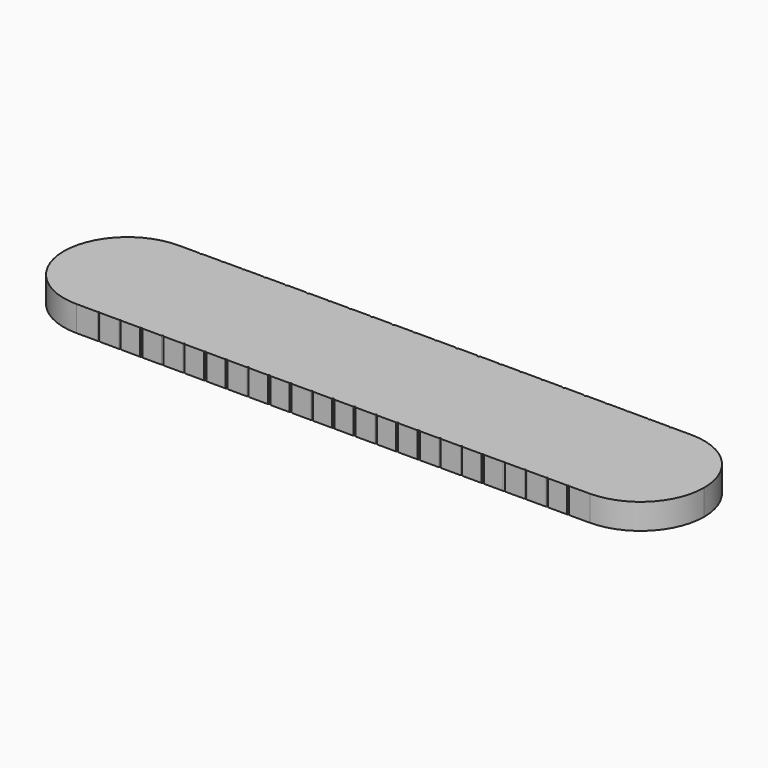
from build123d import *

# Parameters (mm, degrees)
F1_DEPTH = 6
F3_DEPTH = 25


with BuildPart() as f1:
    # F0 (on Top) → F1 (new body)
    with BuildSketch(Plane.XY):
        with BuildLine():
            ThreePointArc((60.149461, 14.9), (30.074772, 14.975), (0, 15))
            ThreePointArc((0, 15), (-30.074772, 14.975), (-60.149461, 14.9))
            ThreePointArc((-60.149461, 14.9), (-70.653369, 10.518418), (-75, 0))
            ThreePointArc((-75, 0), (-70.653369, -10.518418), (-60.149461, -14.9))
            ThreePointArc((-60.149461, -14.9), (-30.074772, -14.975), (0, -15))
            ThreePointArc((0, -15), (30.074772, -14.975), (60.149461, -14.9))
            ThreePointArc((60.149461, -14.9), (70.653369, -10.518418), (75, 0))
            ThreePointArc((75, 0), (70.653369, 10.518418), (60.149461, 14.9))
        make_face()
    extrude(amount=F1_DEPTH)

    # F2 (on Top) → F3 (cut)
    with BuildSketch(Plane.XY):
        with BuildLine():
            ThreePointArc((-55.149461, 14.9), (-55.02977, 14.873802), (-54.931967, 14.8))
            ThreePointArc((-54.931967, 14.8), (-54.871973, 14.772416), (-54.811979, 14.8))
            ThreePointArc((-54.811979, 14.8), (-54.714176, 14.873802), (-54.594486, 14.9))
            Line((-54.594486, 14.9), (-54.594486, 15.279223))
            Line((-54.594486, 15.279223), (-55.149461, 15.279223))
            Line((-55.149461, 15.279223), (-55.149461, 14.9))
        make_face()
        with BuildLine():
            ThreePointArc((-54.811979, -14.8), (-54.871973, -14.772416), (-54.931967, -14.8))
            ThreePointArc((-54.931967, -14.8), (-55.02977, -14.873802), (-55.149461, -14.9))
            Line((-55.149461, -14.9), (-55.149461, -15.279223))
            Line((-55.149461, -15.279223), (-54.594486, -15.279223))
            Line((-54.594486, -15.279223), (-54.594486, -14.9))
            ThreePointArc((-54.594486, -14.9), (-54.714176, -14.873802), (-54.811979, -14.8))
        make_face()
        with BuildLine():
            Line((-50.149461, -14.9), (-50.149461, -15.279223))
            Line((-50.149461, -15.279223), (-49.594486, -15.279223))
            Line((-49.594486, -15.279223), (-49.594486, -14.9))
            ThreePointArc((-49.594486, -14.9), (-49.714176, -14.873802), (-49.811979, -14.8))
            ThreePointArc((-49.811979, -14.8), (-49.871973, -14.772416), (-49.931967, -14.8))
            ThreePointArc((-49.931967, -14.8), (-50.02977, -14.873802), (-50.149461, -14.9))
        make_face()
        with BuildLine():
            ThreePointArc((-50.149461, 14.9), (-50.02977, 14.873802), (-49.931967, 14.8))
            ThreePointArc((-49.931967, 14.8), (-49.871973, 14.772416), (-49.811979, 14.8))
            ThreePointArc((-49.811979, 14.8), (-49.714176, 14.873802), (-49.594486, 14.9))
            Line((-49.594486, 14.9), (-49.594486, 15.279223))
            Line((-49.594486, 15.279223), (-50.149461, 15.279223))
            Line((-50.149461, 15.279223), (-50.149461, 14.9))
        make_face()
        with BuildLine():
            Line((-45.149461, -14.9), (-45.149461, -15.279223))
            Line((-45.149461, -15.279223), (-44.594486, -15.279223))
            Line((-44.594486, -15.279223), (-44.594486, -14.9))
            ThreePointArc((-44.594486, -14.9), (-44.714176, -14.873802), (-44.811979, -14.8))
            ThreePointArc((-44.811979, -14.8), (-44.871973, -14.772416), (-44.931967, -14.8))
            ThreePointArc((-44.931967, -14.8), (-45.02977, -14.873802), (-45.149461, -14.9))
        make_face()
        with BuildLine():
            ThreePointArc((-45.149461, 14.9), (-45.02977, 14.873802), (-44.931967, 14.8))
            ThreePointArc((-44.931967, 14.8), (-44.871973, 14.772416), (-44.811979, 14.8))
            ThreePointArc((-44.811979, 14.8), (-44.714176, 14.873802), (-44.594486, 14.9))
            Line((-44.594486, 14.9), (-44.594486, 15.279223))
            Line((-44.594486, 15.279223), (-45.149461, 15.279223))
            Line((-45.149461, 15.279223), (-45.149461, 14.9))
        make_face()
        with BuildLine():
            Line((-40.149461, -14.9), (-40.149461, -15.279223))
            Line((-40.149461, -15.279223), (-39.594486, -15.279223))
            Line((-39.594486, -15.279223), (-39.594486, -14.9))
            ThreePointArc((-39.594486, -14.9), (-39.714176, -14.873802), (-39.811979, -14.8))
            ThreePointArc((-39.811979, -14.8), (-39.871973, -14.772416), (-39.931967, -14.8))
            ThreePointArc((-39.931967, -14.8), (-40.02977, -14.873802), (-40.149461, -14.9))
        make_face()
        with BuildLine():
            ThreePointArc((-40.149461, 14.9), (-40.02977, 14.873802), (-39.931967, 14.8))
            ThreePointArc((-39.931967, 14.8), (-39.871973, 14.772416), (-39.811979, 14.8))
            ThreePointArc((-39.811979, 14.8), (-39.714176, 14.873802), (-39.594486, 14.9))
            Line((-39.594486, 14.9), (-39.594486, 15.279223))
            Line((-39.594486, 15.279223), (-40.149461, 15.279223))
            Line((-40.149461, 15.279223), (-40.149461, 14.9))
        make_face()
        with BuildLine():
            Line((-35.149461, -14.9), (-35.149461, -15.279223))
            Line((-35.149461, -15.279223), (-34.594486, -15.279223))
            Line((-34.594486, -15.279223), (-34.594486, -14.9))
            ThreePointArc((-34.594486, -14.9), (-34.714176, -14.873802), (-34.811979, -14.8))
            ThreePointArc((-34.811979, -14.8), (-34.871973, -14.772416), (-34.931967, -14.8))
            ThreePointArc((-34.931967, -14.8), (-35.02977, -14.873802), (-35.149461, -14.9))
        make_face()
        with BuildLine():
            ThreePointArc((-35.149461, 14.9), (-35.02977, 14.873802), (-34.931967, 14.8))
            ThreePointArc((-34.931967, 14.8), (-34.871973, 14.772416), (-34.811979, 14.8))
            ThreePointArc((-34.811979, 14.8), (-34.714176, 14.873802), (-34.594486, 14.9))
            Line((-34.594486, 14.9), (-34.594486, 15.279223))
            Line((-34.594486, 15.279223), (-35.149461, 15.279223))
            Line((-35.149461, 15.279223), (-35.149461, 14.9))
        make_face()
        with BuildLine():
            Line((-30.149461, -14.9), (-30.149461, -15.279223))
            Line((-30.149461, -15.279223), (-29.594486, -15.279223))
            Line((-29.594486, -15.279223), (-29.594486, -14.9))
            ThreePointArc((-29.594486, -14.9), (-29.714176, -14.873802), (-29.811979, -14.8))
            ThreePointArc((-29.811979, -14.8), (-29.871973, -14.772416), (-29.931967, -14.8))
            ThreePointArc((-29.931967, -14.8), (-30.02977, -14.873802), (-30.149461, -14.9))
        make_face()
        with BuildLine():
            ThreePointArc((-30.149461, 14.9), (-30.02977, 14.873802), (-29.931967, 14.8))
            ThreePointArc((-29.931967, 14.8), (-29.871973, 14.772416), (-29.811979, 14.8))
            ThreePointArc((-29.811979, 14.8), (-29.714176, 14.873802), (-29.594486, 14.9))
            Line((-29.594486, 14.9), (-29.594486, 15.279223))
            Line((-29.594486, 15.279223), (-30.149461, 15.279223))
            Line((-30.149461, 15.279223), (-30.149461, 14.9))
        make_face()
        with BuildLine():
            Line((-25.149461, -14.9), (-25.149461, -15.279223))
            Line((-25.149461, -15.279223), (-24.594486, -15.279223))
            Line((-24.594486, -15.279223), (-24.594486, -14.9))
            ThreePointArc((-24.594486, -14.9), (-24.714176, -14.873802), (-24.811979, -14.8))
            ThreePointArc((-24.811979, -14.8), (-24.871973, -14.772416), (-24.931967, -14.8))
            ThreePointArc((-24.931967, -14.8), (-25.02977, -14.873802), (-25.149461, -14.9))
        make_face()
        with BuildLine():
            ThreePointArc((-25.149461, 14.9), (-25.02977, 14.873802), (-24.931967, 14.8))
            ThreePointArc((-24.931967, 14.8), (-24.871973, 14.772416), (-24.811979, 14.8))
            ThreePointArc((-24.811979, 14.8), (-24.714176, 14.873802), (-24.594486, 14.9))
            Line((-24.594486, 14.9), (-24.594486, 15.279223))
            Line((-24.594486, 15.279223), (-25.149461, 15.279223))
            Line((-25.149461, 15.279223), (-25.149461, 14.9))
        make_face()
        with BuildLine():
            Line((-20.149461, -14.9), (-20.149461, -15.279223))
            Line((-20.149461, -15.279223), (-19.594486, -15.279223))
            Line((-19.594486, -15.279223), (-19.594486, -14.9))
            ThreePointArc((-19.594486, -14.9), (-19.714176, -14.873802), (-19.811979, -14.8))
            ThreePointArc((-19.811979, -14.8), (-19.871973, -14.772416), (-19.931967, -14.8))
            ThreePointArc((-19.931967, -14.8), (-20.02977, -14.873802), (-20.149461, -14.9))
        make_face()
        with BuildLine():
            ThreePointArc((-20.149461, 14.9), (-20.02977, 14.873802), (-19.931967, 14.8))
            ThreePointArc((-19.931967, 14.8), (-19.871973, 14.772416), (-19.811979, 14.8))
            ThreePointArc((-19.811979, 14.8), (-19.714176, 14.873802), (-19.594486, 14.9))
            Line((-19.594486, 14.9), (-19.594486, 15.279223))
            Line((-19.594486, 15.279223), (-20.149461, 15.279223))
            Line((-20.149461, 15.279223), (-20.149461, 14.9))
        make_face()
        with BuildLine():
            Line((-15.149461, -14.9), (-15.149461, -15.279223))
            Line((-15.149461, -15.279223), (-14.594486, -15.279223))
            Line((-14.594486, -15.279223), (-14.594486, -14.9))
            ThreePointArc((-14.594486, -14.9), (-14.714176, -14.873802), (-14.811979, -14.8))
            ThreePointArc((-14.811979, -14.8), (-14.871973, -14.772416), (-14.931967, -14.8))
            ThreePointArc((-14.931967, -14.8), (-15.02977, -14.873802), (-15.149461, -14.9))
        make_face()
        with BuildLine():
            ThreePointArc((-15.149461, 14.9), (-15.02977, 14.873802), (-14.931967, 14.8))
            ThreePointArc((-14.931967, 14.8), (-14.871973, 14.772416), (-14.811979, 14.8))
            ThreePointArc((-14.811979, 14.8), (-14.714176, 14.873802), (-14.594486, 14.9))
            Line((-14.594486, 14.9), (-14.594486, 15.279223))
            Line((-14.594486, 15.279223), (-15.149461, 15.279223))
            Line((-15.149461, 15.279223), (-15.149461, 14.9))
        make_face()
        with BuildLine():
            Line((-10.149461, -14.9), (-10.149461, -15.279223))
            Line((-10.149461, -15.279223), (-9.594486, -15.279223))
            Line((-9.594486, -15.279223), (-9.594486, -14.9))
            ThreePointArc((-9.594486, -14.9), (-9.714176, -14.873802), (-9.811979, -14.8))
            ThreePointArc((-9.811979, -14.8), (-9.871973, -14.772416), (-9.931967, -14.8))
            ThreePointArc((-9.931967, -14.8), (-10.02977, -14.873802), (-10.149461, -14.9))
        make_face()
        with BuildLine():
            ThreePointArc((-10.149461, 14.9), (-10.02977, 14.873802), (-9.931967, 14.8))
            ThreePointArc((-9.931967, 14.8), (-9.871973, 14.772416), (-9.811979, 14.8))
            ThreePointArc((-9.811979, 14.8), (-9.714176, 14.873802), (-9.594486, 14.9))
            Line((-9.594486, 14.9), (-9.594486, 15.279223))
            Line((-9.594486, 15.279223), (-10.149461, 15.279223))
            Line((-10.149461, 15.279223), (-10.149461, 14.9))
        make_face()
        with BuildLine():
            Line((-5.149461, -14.9), (-5.149461, -15.279223))
            Line((-5.149461, -15.279223), (-4.594486, -15.279223))
            Line((-4.594486, -15.279223), (-4.594486, -14.9))
            ThreePointArc((-4.594486, -14.9), (-4.714176, -14.873802), (-4.811979, -14.8))
            ThreePointArc((-4.811979, -14.8), (-4.871973, -14.772416), (-4.931967, -14.8))
            ThreePointArc((-4.931967, -14.8), (-5.02977, -14.873802), (-5.149461, -14.9))
        make_face()
        with BuildLine():
            ThreePointArc((-5.149461, 14.9), (-5.02977, 14.873802), (-4.931967, 14.8))
            ThreePointArc((-4.931967, 14.8), (-4.871973, 14.772416), (-4.811979, 14.8))
            ThreePointArc((-4.811979, 14.8), (-4.714176, 14.873802), (-4.594486, 14.9))
            Line((-4.594486, 14.9), (-4.594486, 15.279223))
            Line((-4.594486, 15.279223), (-5.149461, 15.279223))
            Line((-5.149461, 15.279223), (-5.149461, 14.9))
        make_face()
        with BuildLine():
            Line((-0.149461, -14.9), (-0.149461, -15.279223))
            Line((-0.149461, -15.279223), (0.405514, -15.279223))
            Line((0.405514, -15.279223), (0.405514, -14.9))
            ThreePointArc((0.405514, -14.9), (0.285824, -14.873802), (0.188021, -14.8))
            ThreePointArc((0.188021, -14.8), (0.128027, -14.772416), (0.068033, -14.8))
            ThreePointArc((0.068033, -14.8), (-0.02977, -14.873802), (-0.149461, -14.9))
        make_face()
        with BuildLine():
            ThreePointArc((-0.149461, 14.9), (-0.02977, 14.873802), (0.068033, 14.8))
            ThreePointArc((0.068033, 14.8), (0.128027, 14.772416), (0.188021, 14.8))
            ThreePointArc((0.188021, 14.8), (0.285824, 14.873802), (0.405514, 14.9))
            Line((0.405514, 14.9), (0.405514, 15.279223))
            Line((0.405514, 15.279223), (-0.149461, 15.279223))
            Line((-0.149461, 15.279223), (-0.149461, 14.9))
        make_face()
        with BuildLine():
            Line((4.850539, -14.9), (4.850539, -15.279223))
            Line((4.850539, -15.279223), (5.405514, -15.279223))
            Line((5.405514, -15.279223), (5.405514, -14.9))
            ThreePointArc((5.405514, -14.9), (5.285824, -14.873802), (5.188021, -14.8))
            ThreePointArc((5.188021, -14.8), (5.128027, -14.772416), (5.068033, -14.8))
            ThreePointArc((5.068033, -14.8), (4.97023, -14.873802), (4.850539, -14.9))
        make_face()
        with BuildLine():
            ThreePointArc((4.850539, 14.9), (4.97023, 14.873802), (5.068033, 14.8))
            ThreePointArc((5.068033, 14.8), (5.128027, 14.772416), (5.188021, 14.8))
            ThreePointArc((5.188021, 14.8), (5.285824, 14.873802), (5.405514, 14.9))
            Line((5.405514, 14.9), (5.405514, 15.279223))
            Line((5.405514, 15.279223), (4.850539, 15.279223))
            Line((4.850539, 15.279223), (4.850539, 14.9))
        make_face()
        with BuildLine():
            Line((9.850539, -14.9), (9.850539, -15.279223))
            Line((9.850539, -15.279223), (10.405514, -15.279223))
            Line((10.405514, -15.279223), (10.405514, -14.9))
            ThreePointArc((10.405514, -14.9), (10.285824, -14.873802), (10.188021, -14.8))
            ThreePointArc((10.188021, -14.8), (10.128027, -14.772416), (10.068033, -14.8))
            ThreePointArc((10.068033, -14.8), (9.97023, -14.873802), (9.850539, -14.9))
        make_face()
        with BuildLine():
            ThreePointArc((9.850539, 14.9), (9.97023, 14.873802), (10.068033, 14.8))
            ThreePointArc((10.068033, 14.8), (10.128027, 14.772416), (10.188021, 14.8))
            ThreePointArc((10.188021, 14.8), (10.285824, 14.873802), (10.405514, 14.9))
            Line((10.405514, 14.9), (10.405514, 15.279223))
            Line((10.405514, 15.279223), (9.850539, 15.279223))
            Line((9.850539, 15.279223), (9.850539, 14.9))
        make_face()
        with BuildLine():
            Line((14.850539, -14.9), (14.850539, -15.279223))
            Line((14.850539, -15.279223), (15.405514, -15.279223))
            Line((15.405514, -15.279223), (15.405514, -14.9))
            ThreePointArc((15.405514, -14.9), (15.285824, -14.873802), (15.188021, -14.8))
            ThreePointArc((15.188021, -14.8), (15.128027, -14.772416), (15.068033, -14.8))
            ThreePointArc((15.068033, -14.8), (14.97023, -14.873802), (14.850539, -14.9))
        make_face()
        with BuildLine():
            ThreePointArc((14.850539, 14.9), (14.97023, 14.873802), (15.068033, 14.8))
            ThreePointArc((15.068033, 14.8), (15.128027, 14.772416), (15.188021, 14.8))
            ThreePointArc((15.188021, 14.8), (15.285824, 14.873802), (15.405514, 14.9))
            Line((15.405514, 14.9), (15.405514, 15.279223))
            Line((15.405514, 15.279223), (14.850539, 15.279223))
            Line((14.850539, 15.279223), (14.850539, 14.9))
        make_face()
        with BuildLine():
            Line((19.850539, -14.9), (19.850539, -15.279223))
            Line((19.850539, -15.279223), (20.405514, -15.279223))
            Line((20.405514, -15.279223), (20.405514, -14.9))
            ThreePointArc((20.405514, -14.9), (20.285824, -14.873802), (20.188021, -14.8))
            ThreePointArc((20.188021, -14.8), (20.128027, -14.772416), (20.068033, -14.8))
            ThreePointArc((20.068033, -14.8), (19.97023, -14.873802), (19.850539, -14.9))
        make_face()
        with BuildLine():
            ThreePointArc((19.850539, 14.9), (19.97023, 14.873802), (20.068033, 14.8))
            ThreePointArc((20.068033, 14.8), (20.128027, 14.772416), (20.188021, 14.8))
            ThreePointArc((20.188021, 14.8), (20.285824, 14.873802), (20.405514, 14.9))
            Line((20.405514, 14.9), (20.405514, 15.279223))
            Line((20.405514, 15.279223), (19.850539, 15.279223))
            Line((19.850539, 15.279223), (19.850539, 14.9))
        make_face()
        with BuildLine():
            Line((24.850539, -14.9), (24.850539, -15.279223))
            Line((24.850539, -15.279223), (25.405514, -15.279223))
            Line((25.405514, -15.279223), (25.405514, -14.9))
            ThreePointArc((25.405514, -14.9), (25.285824, -14.873802), (25.188021, -14.8))
            ThreePointArc((25.188021, -14.8), (25.128027, -14.772416), (25.068033, -14.8))
            ThreePointArc((25.068033, -14.8), (24.97023, -14.873802), (24.850539, -14.9))
        make_face()
        with BuildLine():
            ThreePointArc((24.850539, 14.9), (24.97023, 14.873802), (25.068033, 14.8))
            ThreePointArc((25.068033, 14.8), (25.128027, 14.772416), (25.188021, 14.8))
            ThreePointArc((25.188021, 14.8), (25.285824, 14.873802), (25.405514, 14.9))
            Line((25.405514, 14.9), (25.405514, 15.279223))
            Line((25.405514, 15.279223), (24.850539, 15.279223))
            Line((24.850539, 15.279223), (24.850539, 14.9))
        make_face()
        with BuildLine():
            Line((29.850539, -14.9), (29.850539, -15.279223))
            Line((29.850539, -15.279223), (30.405514, -15.279223))
            Line((30.405514, -15.279223), (30.405514, -14.9))
            ThreePointArc((30.405514, -14.9), (30.285824, -14.873802), (30.188021, -14.8))
            ThreePointArc((30.188021, -14.8), (30.128027, -14.772416), (30.068033, -14.8))
            ThreePointArc((30.068033, -14.8), (29.97023, -14.873802), (29.850539, -14.9))
        make_face()
        with BuildLine():
            ThreePointArc((29.850539, 14.9), (29.97023, 14.873802), (30.068033, 14.8))
            ThreePointArc((30.068033, 14.8), (30.128027, 14.772416), (30.188021, 14.8))
            ThreePointArc((30.188021, 14.8), (30.285824, 14.873802), (30.405514, 14.9))
            Line((30.405514, 14.9), (30.405514, 15.279223))
            Line((30.405514, 15.279223), (29.850539, 15.279223))
            Line((29.850539, 15.279223), (29.850539, 14.9))
        make_face()
        with BuildLine():
            Line((34.850539, -14.9), (34.850539, -15.279223))
            Line((34.850539, -15.279223), (35.405514, -15.279223))
            Line((35.405514, -15.279223), (35.405514, -14.9))
            ThreePointArc((35.405514, -14.9), (35.285824, -14.873802), (35.188021, -14.8))
            ThreePointArc((35.188021, -14.8), (35.128027, -14.772416), (35.068033, -14.8))
            ThreePointArc((35.068033, -14.8), (34.97023, -14.873802), (34.850539, -14.9))
        make_face()
        with BuildLine():
            ThreePointArc((34.850539, 14.9), (34.97023, 14.873802), (35.068033, 14.8))
            ThreePointArc((35.068033, 14.8), (35.128027, 14.772416), (35.188021, 14.8))
            ThreePointArc((35.188021, 14.8), (35.285824, 14.873802), (35.405514, 14.9))
            Line((35.405514, 14.9), (35.405514, 15.279223))
            Line((35.405514, 15.279223), (34.850539, 15.279223))
            Line((34.850539, 15.279223), (34.850539, 14.9))
        make_face()
        with BuildLine():
            Line((39.850539, -14.9), (39.850539, -15.279223))
            Line((39.850539, -15.279223), (40.405514, -15.279223))
            Line((40.405514, -15.279223), (40.405514, -14.9))
            ThreePointArc((40.405514, -14.9), (40.285824, -14.873802), (40.188021, -14.8))
            ThreePointArc((40.188021, -14.8), (40.128027, -14.772416), (40.068033, -14.8))
            ThreePointArc((40.068033, -14.8), (39.97023, -14.873802), (39.850539, -14.9))
        make_face()
        with BuildLine():
            ThreePointArc((39.850539, 14.9), (39.97023, 14.873802), (40.068033, 14.8))
            ThreePointArc((40.068033, 14.8), (40.128027, 14.772416), (40.188021, 14.8))
            ThreePointArc((40.188021, 14.8), (40.285824, 14.873802), (40.405514, 14.9))
            Line((40.405514, 14.9), (40.405514, 15.279223))
            Line((40.405514, 15.279223), (39.850539, 15.279223))
            Line((39.850539, 15.279223), (39.850539, 14.9))
        make_face()
        with BuildLine():
            Line((44.850539, -14.9), (44.850539, -15.279223))
            Line((44.850539, -15.279223), (45.405514, -15.279223))
            Line((45.405514, -15.279223), (45.405514, -14.9))
            ThreePointArc((45.405514, -14.9), (45.285824, -14.873802), (45.188021, -14.8))
            ThreePointArc((45.188021, -14.8), (45.128027, -14.772416), (45.068033, -14.8))
            ThreePointArc((45.068033, -14.8), (44.97023, -14.873802), (44.850539, -14.9))
        make_face()
        with BuildLine():
            ThreePointArc((44.850539, 14.9), (44.97023, 14.873802), (45.068033, 14.8))
            ThreePointArc((45.068033, 14.8), (45.128027, 14.772416), (45.188021, 14.8))
            ThreePointArc((45.188021, 14.8), (45.285824, 14.873802), (45.405514, 14.9))
            Line((45.405514, 14.9), (45.405514, 15.279223))
            Line((45.405514, 15.279223), (44.850539, 15.279223))
            Line((44.850539, 15.279223), (44.850539, 14.9))
        make_face()
        with BuildLine():
            Line((49.850539, -14.9), (49.850539, -15.279223))
            Line((49.850539, -15.279223), (50.405514, -15.279223))
            Line((50.405514, -15.279223), (50.405514, -14.9))
            ThreePointArc((50.405514, -14.9), (50.285824, -14.873802), (50.188021, -14.8))
            ThreePointArc((50.188021, -14.8), (50.128027, -14.772416), (50.068033, -14.8))
            ThreePointArc((50.068033, -14.8), (49.97023, -14.873802), (49.850539, -14.9))
        make_face()
        with BuildLine():
            ThreePointArc((49.850539, 14.9), (49.97023, 14.873802), (50.068033, 14.8))
            ThreePointArc((50.068033, 14.8), (50.128027, 14.772416), (50.188021, 14.8))
            ThreePointArc((50.188021, 14.8), (50.285824, 14.873802), (50.405514, 14.9))
            Line((50.405514, 14.9), (50.405514, 15.279223))
            Line((50.405514, 15.279223), (49.850539, 15.279223))
            Line((49.850539, 15.279223), (49.850539, 14.9))
        make_face()
        with BuildLine():
            Line((54.850539, -14.9), (54.850539, -15.279223))
            Line((54.850539, -15.279223), (55.405514, -15.279223))
            Line((55.405514, -15.279223), (55.405514, -14.9))
            ThreePointArc((55.405514, -14.9), (55.285824, -14.873802), (55.188021, -14.8))
            ThreePointArc((55.188021, -14.8), (55.128027, -14.772416), (55.068033, -14.8))
            ThreePointArc((55.068033, -14.8), (54.97023, -14.873802), (54.850539, -14.9))
        make_face()
        with BuildLine():
            ThreePointArc((54.850539, 14.9), (54.97023, 14.873802), (55.068033, 14.8))
            ThreePointArc((55.068033, 14.8), (55.128027, 14.772416), (55.188021, 14.8))
            ThreePointArc((55.188021, 14.8), (55.285824, 14.873802), (55.405514, 14.9))
            Line((55.405514, 14.9), (55.405514, 15.279223))
            Line((55.405514, 15.279223), (54.850539, 15.279223))
            Line((54.850539, 15.279223), (54.850539, 14.9))
        make_face()
    extrude(amount=F3_DEPTH, mode=Mode.SUBTRACT)


solid = f1.part
